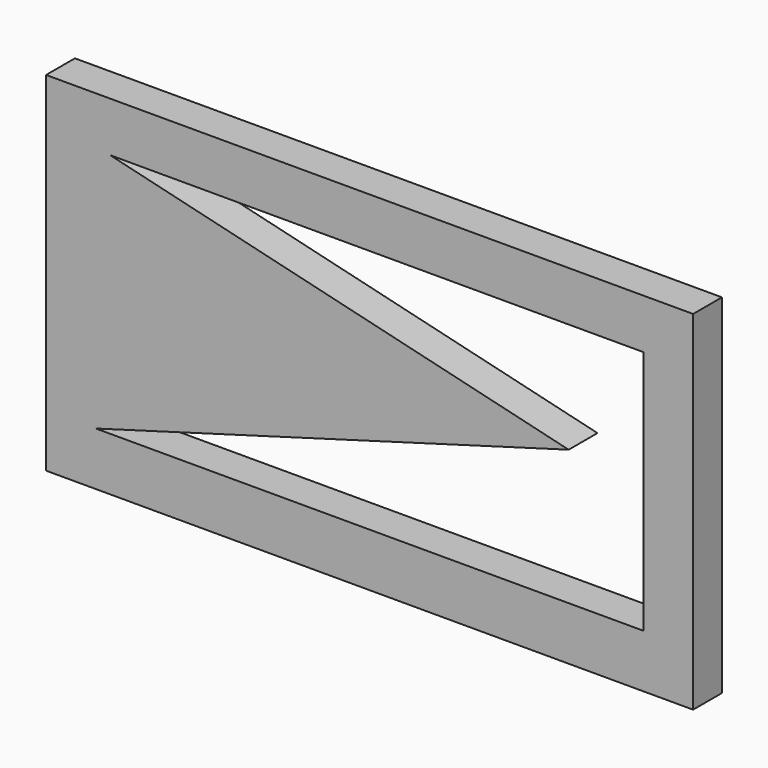
from build123d import *

# Parameters (mm, degrees)
F0_W     = 53.881584
F0_H     = 29.013161
F1_DEPTH = 3


with BuildPart() as f1:
    # F0 (on Front) → F1 (new body)
    with BuildSketch(Plane.XZ):
        with Locations((-33.157897, -28.717106)):
            Rectangle(F0_W, F0_H)
        Polygon((-54.76974, -18.355265), (-10.361843, -18.355265), (-10.361843, -38.782898), (-55.953946, -38.782898), (-16.578948, -27.532894), align=None, mode=Mode.SUBTRACT)
    extrude(amount=F1_DEPTH)


solid = f1.part
